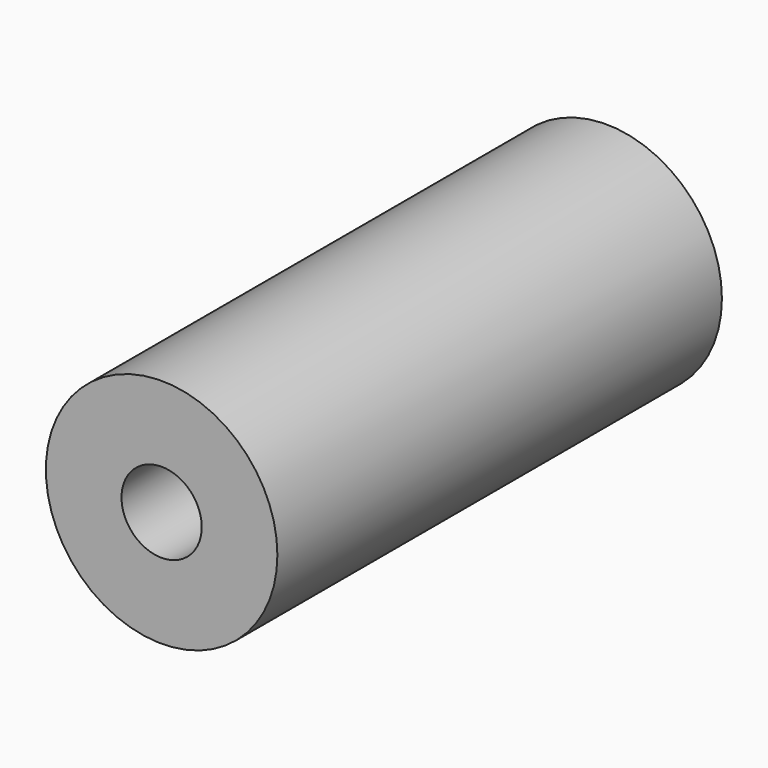
from build123d import *

# Parameters (mm, degrees)
F0_R     = 3.75
F1_DEPTH = 18
F3_DEPTH = 13
F4_R     = 1.3
F5_DEPTH = 18.001


with BuildPart() as f1:
    # F0 (on Front) → F1 (new body)
    with BuildSketch(Plane.XZ):
        Circle(F0_R)
    extrude(amount=F1_DEPTH)

    # F2 (on face) → F3 (cut, through all)
    with BuildSketch(Plane(origin=(0, 0, 0), x_dir=(-1, 0, 0), z_dir=(0, 1, 0))):
        with BuildLine():
            Line((2.4, -1.6278820596), (2.4, 1.6278820596))
            ThreePointArc((2.4, 1.6278820596), (-2.9, 0), (2.4, -1.6278820596))
        make_face()
    extrude(amount=-F3_DEPTH, mode=Mode.SUBTRACT)

    # F4 (on face) → F5 (cut, through all)
    with BuildSketch(Plane.XZ.offset(18)):
        Circle(F4_R)
    extrude(amount=-F5_DEPTH, mode=Mode.SUBTRACT)


solid = f1.part
